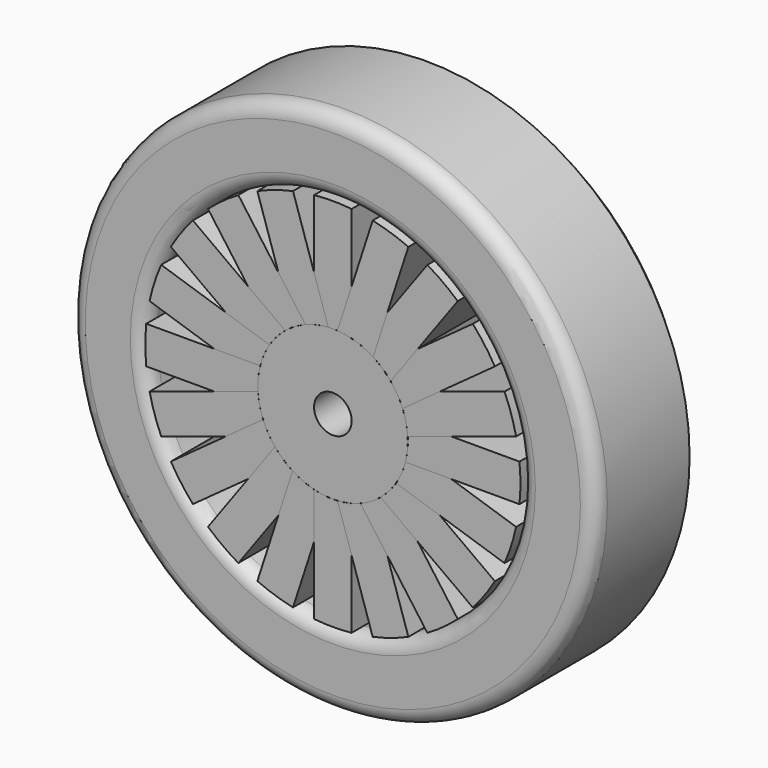
from build123d import *

# Parameters (mm, degrees)
F0_R            = 88.9
F1_DEPTH        = 44.958
F2_R            = 63.5
F3_DEPTH        = 44.958
F4_R            = 25.4
F5_DEPTH        = 44.958
F8_DEPTH        = 44.958
F9_COUNT        = 20
F10_D           = 12.7
F10_CBORE_D     = 12.7
F10_CBORE_DEPTH = 6.35
F11_R           = 5.08
F12_SIZE        = 5.08


with BuildPart() as f1:
    # F0 (on Front) → F1 (new body)
    with BuildSketch(Plane.XZ):
        Circle(F0_R)
    extrude(amount=F1_DEPTH)

    # F2 (on face) → F3 (cut)
    with BuildSketch(Plane.XZ.offset(44.958)):
        Circle(F2_R)
    extrude(amount=-F3_DEPTH, mode=Mode.SUBTRACT)

    # F11
    f11_edges = [f1.edges().sort_by_distance(p)[0] for p in [
        (-88.9, -44.958, 0),
        (-63.5, -44.958, 0),
    ]]
    fillet(f11_edges, radius=F11_R)

    # F12
    f12_edges = [f1.edges().sort_by_distance(p)[0] for p in [
        (-88.9, 0, 0),
        (-63.5, 0, 0),
    ]]
    chamfer(f12_edges, length=F12_SIZE)


with BuildPart() as f5:
    # F4 (on face) → F5 (new body, through all)
    with BuildSketch(Plane.XZ.offset(44.958)):
        Circle(F4_R)
    extrude(amount=-F5_DEPTH)

    # F10 (through all)
    with Locations(Plane.XZ.offset(44.958)):
        with Locations((0, 0)):
            CounterBoreHole(F10_D / 2, F10_CBORE_D / 2, F10_CBORE_DEPTH)


with BuildPart() as f8:
    # F6 (on face) → F8 (new body, through all)
    with BuildSketch(Plane.XZ.offset(44.958)):
        with BuildLine():
            ThreePointArc((-6.35, 24.5934442484), (0, 25.4), (6.35, 24.5934442484))
            Line((6.35, 24.5934442484), (6.35, 63.1817022563))
            ThreePointArc((6.35, 63.1817022563), (0, 63.5), (-6.35, 63.1817022563))
            Line((-6.35, 63.1817022563), (-6.35, 24.5934442484))
        make_face()
    extrude(amount=-F8_DEPTH)


with BuildPart() as f9_1:
    # F9: instance of F8
    add(f8.part.rotate(Axis((0, 0, 0), (0, -1, 0)), 1 * 360 / F9_COUNT))


with BuildPart() as f9_2:
    # F9: instance of F8
    add(f8.part.rotate(Axis((0, 0, 0), (0, -1, 0)), 2 * 360 / F9_COUNT))


with BuildPart() as f9_3:
    # F9: instance of F8
    add(f8.part.rotate(Axis((0, 0, 0), (0, -1, 0)), 3 * 360 / F9_COUNT))


with BuildPart() as f9_4:
    # F9: instance of F8
    add(f8.part.rotate(Axis((0, 0, 0), (0, -1, 0)), 4 * 360 / F9_COUNT))


with BuildPart() as f9_5:
    # F9: instance of F8
    add(f8.part.rotate(Axis((0, 0, 0), (0, -1, 0)), 5 * 360 / F9_COUNT))


with BuildPart() as f9_6:
    # F9: instance of F8
    add(f8.part.rotate(Axis((0, 0, 0), (0, -1, 0)), 6 * 360 / F9_COUNT))


with BuildPart() as f9_7:
    # F9: instance of F8
    add(f8.part.rotate(Axis((0, 0, 0), (0, -1, 0)), 7 * 360 / F9_COUNT))


with BuildPart() as f9_8:
    # F9: instance of F8
    add(f8.part.rotate(Axis((0, 0, 0), (0, -1, 0)), 8 * 360 / F9_COUNT))


with BuildPart() as f9_9:
    # F9: instance of F8
    add(f8.part.rotate(Axis((0, 0, 0), (0, -1, 0)), 9 * 360 / F9_COUNT))


with BuildPart() as f9_10:
    # F9: instance of F8
    add(f8.part.rotate(Axis((0, 0, 0), (0, -1, 0)), 10 * 360 / F9_COUNT))


with BuildPart() as f9_11:
    # F9: instance of F8
    add(f8.part.rotate(Axis((0, 0, 0), (0, -1, 0)), 11 * 360 / F9_COUNT))


with BuildPart() as f9_12:
    # F9: instance of F8
    add(f8.part.rotate(Axis((0, 0, 0), (0, -1, 0)), 12 * 360 / F9_COUNT))


with BuildPart() as f9_13:
    # F9: instance of F8
    add(f8.part.rotate(Axis((0, 0, 0), (0, -1, 0)), 13 * 360 / F9_COUNT))


with BuildPart() as f9_14:
    # F9: instance of F8
    add(f8.part.rotate(Axis((0, 0, 0), (0, -1, 0)), 14 * 360 / F9_COUNT))


with BuildPart() as f9_15:
    # F9: instance of F8
    add(f8.part.rotate(Axis((0, 0, 0), (0, -1, 0)), 15 * 360 / F9_COUNT))


with BuildPart() as f9_16:
    # F9: instance of F8
    add(f8.part.rotate(Axis((0, 0, 0), (0, -1, 0)), 16 * 360 / F9_COUNT))


with BuildPart() as f9_17:
    # F9: instance of F8
    add(f8.part.rotate(Axis((0, 0, 0), (0, -1, 0)), 17 * 360 / F9_COUNT))


with BuildPart() as f9_18:
    # F9: instance of F8
    add(f8.part.rotate(Axis((0, 0, 0), (0, -1, 0)), 18 * 360 / F9_COUNT))


with BuildPart() as f9_19:
    # F9: instance of F8
    add(f8.part.rotate(Axis((0, 0, 0), (0, -1, 0)), 19 * 360 / F9_COUNT))


solid = Compound([f1.part, f5.part, f8.part, f9_1.part, f9_2.part, f9_3.part, f9_4.part, f9_5.part, f9_6.part, f9_7.part, f9_8.part, f9_9.part, f9_10.part, f9_11.part, f9_12.part, f9_13.part, f9_14.part, f9_15.part, f9_16.part, f9_17.part, f9_18.part, f9_19.part])
